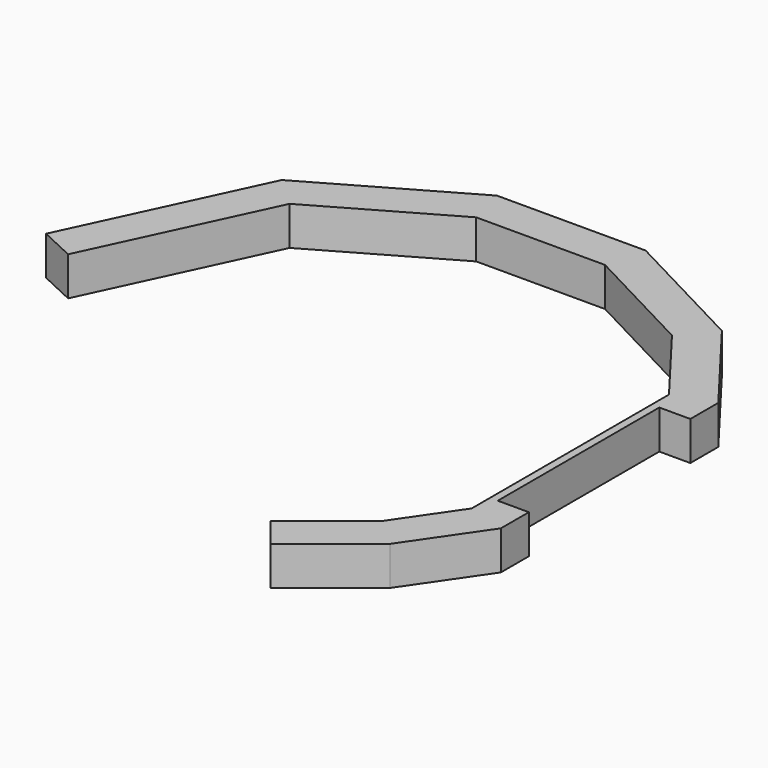
from build123d import *

# Parameters (mm, degrees)
F1_DEPTH = 5
F3_DEPTH = 4


with BuildPart() as f1:
    # F0 (on Top) → F1 (new body)
    with BuildSketch(Plane.XY):
        Polygon((0, -35), (0, 0), (-9.510925, 12.472135), (-26.420884, 21.336073), (-45.579116, 21.336073), (-64.596242, 10.46882), (-75.796338, -13.468692), (-71.267544, -15.587665), (-60.739219, 6.914099), (-44.251259, 16.33607), (-27.65191, 16.33607), (-12.814397, 8.558477), (-5.000003, -1.688916), (-5.000003, -33.450294), (-10.299125, -41.177687), (-19.113462, -48.230996), (-15.989488, -52.134945), (-6.595456, -44.617758), align=None)
    extrude(amount=F1_DEPTH)

    # F2 (on face) → F3 (cut)
    with BuildSketch(Plane.YZ):
        Polygon((-4.5, 0), (-4.5, 2.5), (-4.5, 5), (-30.5, 5), (-30.5, 2.5), (-30.5, 0), align=None)
    extrude(amount=-F3_DEPTH, mode=Mode.SUBTRACT)


with BuildPart() as f4_1:
    # F4: copy of F1
    add(f1.part)


solid = f4_1.part
